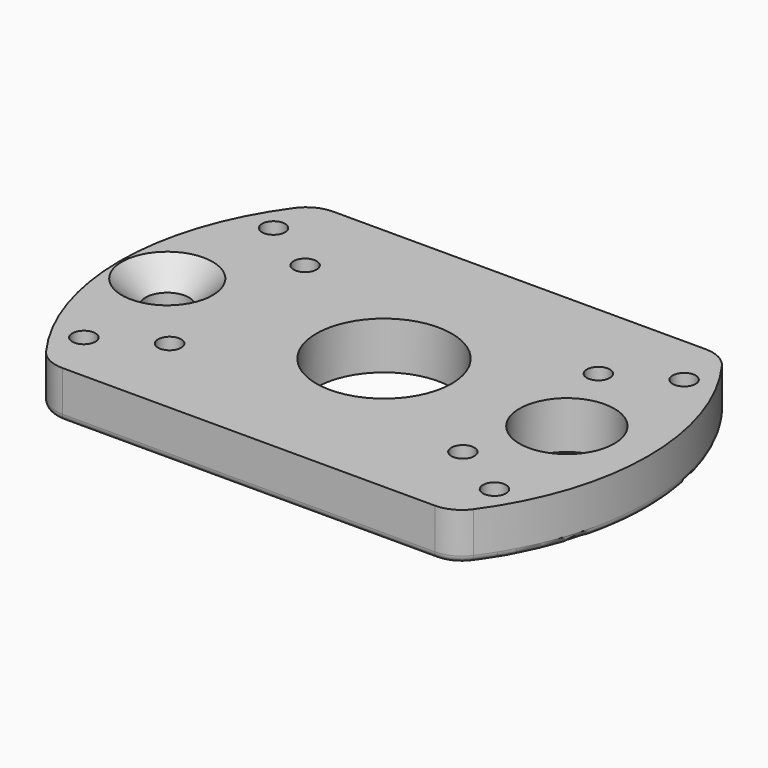
from build123d import *

# Parameters (mm, degrees)
SKETCH020_R     = 10
SKETCH020_R_2   = 3.2
SKETCH020_R_3   = 1.7
SKETCH020_R_4   = 7
PAD_DEPTH       = 7
SKETCH021_R     = 3.5
POCKET_DEPTH    = 1
CHAMFER_SIZE    = 3.5
CHAMFER001_SIZE = 1.5
CHAMFER002_SIZE = 1.5
CHAMFER003_SIZE = 1.5
CHAMFER004_SIZE = 1.5
CHAMFER005_SIZE = 1.5
CHAMFER006_SIZE = 1.5
CHAMFER007_SIZE = 1.5
CHAMFER008_SIZE = 1.5
FILLET_R        = 5
FILLET001_R     = 5
FILLET002_R     = 5
FILLET003_R     = 5
FILLET004_R     = 1


with BuildPart() as part:
    # Sketch020 → Pad (new body)
    with BuildSketch(Plane(origin=(0, 0, 0), x_dir=(1, 0, 0), z_dir=(0, 0, -1))):
        with BuildLine():
            ThreePointArc((-29.933259, 25), (-39, 0), (-29.933259, -25))
            Line((-29.933259, -25), (29.933259, -25))
            ThreePointArc((29.933259, -25), (39, 0), (29.933259, 25))
            Line((-29.933259, 25), (29.933259, 25))
        make_face()
        Circle(SKETCH020_R, mode=Mode.SUBTRACT)
        with Locations((-32, 0)):
            Circle(SKETCH020_R_2, mode=Mode.SUBTRACT)
        with Locations((21.650635, 12.5)):
            Circle(SKETCH020_R_3, mode=Mode.SUBTRACT)
        with Locations((21.650635, -12.5)):
            Circle(SKETCH020_R_3, mode=Mode.SUBTRACT)
        with Locations((-21.650635, 12.5)):
            Circle(SKETCH020_R_3, mode=Mode.SUBTRACT)
        with Locations((-21.650635, -12.5)):
            Circle(SKETCH020_R_3, mode=Mode.SUBTRACT)
        with Locations((-30.310889, 17.5)):
            Circle(SKETCH020_R_3, mode=Mode.SUBTRACT)
        with Locations((-30.310889, -17.5)):
            Circle(SKETCH020_R_3, mode=Mode.SUBTRACT)
        with Locations((30.310889, 17.5)):
            Circle(SKETCH020_R_3, mode=Mode.SUBTRACT)
        with Locations((30.310889, -17.5)):
            Circle(SKETCH020_R_3, mode=Mode.SUBTRACT)
        with Locations((27, 0)):
            Circle(SKETCH020_R_4, mode=Mode.SUBTRACT)
    extrude(amount=PAD_DEPTH)

    # Sketch021 → Pocket (cut)
    with BuildSketch(Plane(origin=(0, 0, -7), x_dir=(1, 0, 0), z_dir=(0, 0, -1))):
        with Locations((21.650635, 12.5)):
            Circle(SKETCH021_R)
        with Locations((21.650635, -12.5)):
            Circle(SKETCH021_R)
        with Locations((-21.650635, 12.5)):
            Circle(SKETCH021_R)
        with Locations((-21.650635, -12.5)):
            Circle(SKETCH021_R)
    extrude(amount=-POCKET_DEPTH, mode=Mode.SUBTRACT)

    # Chamfer
    chamfer_edges = [part.edges().sort_by_distance(p)[0] for p in [
        (-35.2, 0, 0),
    ]]
    chamfer(chamfer_edges, length=CHAMFER_SIZE)

    # Chamfer001
    chamfer001_edges = [part.edges().sort_by_distance(p)[0] for p in [
        (-23.350635, -12.5, -6),
    ]]
    chamfer(chamfer001_edges, length=CHAMFER001_SIZE)

    # Chamfer002
    chamfer002_edges = [part.edges().sort_by_distance(p)[0] for p in [
        (-23.350635, 12.5, -6),
    ]]
    chamfer(chamfer002_edges, length=CHAMFER002_SIZE)

    # Chamfer003
    chamfer003_edges = [part.edges().sort_by_distance(p)[0] for p in [
        (19.950635, -12.5, -6),
    ]]
    chamfer(chamfer003_edges, length=CHAMFER003_SIZE)

    # Chamfer004
    chamfer004_edges = [part.edges().sort_by_distance(p)[0] for p in [
        (19.950635, 12.5, -6),
    ]]
    chamfer(chamfer004_edges, length=CHAMFER004_SIZE)

    # Chamfer005
    chamfer005_edges = [part.edges().sort_by_distance(p)[0] for p in [
        (-32.010889, 17.5, -7),
    ]]
    chamfer(chamfer005_edges, length=CHAMFER005_SIZE)

    # Chamfer006
    chamfer006_edges = [part.edges().sort_by_distance(p)[0] for p in [
        (-32.010889, -17.5, -7),
    ]]
    chamfer(chamfer006_edges, length=CHAMFER006_SIZE)

    # Chamfer007
    chamfer007_edges = [part.edges().sort_by_distance(p)[0] for p in [
        (28.610889, -17.5, -7),
    ]]
    chamfer(chamfer007_edges, length=CHAMFER007_SIZE)

    # Chamfer008
    chamfer008_edges = [part.edges().sort_by_distance(p)[0] for p in [
        (28.610889, 17.5, -7),
    ]]
    chamfer(chamfer008_edges, length=CHAMFER008_SIZE)

    # Fillet
    fillet_edges = [part.edges().sort_by_distance(p)[0] for p in [
        (-29.933259, 25, -3.5),
    ]]
    fillet(fillet_edges, radius=FILLET_R)

    # Fillet001
    fillet001_edges = [part.edges().sort_by_distance(p)[0] for p in [
        (29.933259, 25, -3.5),
    ]]
    fillet(fillet001_edges, radius=FILLET001_R)

    # Fillet002
    fillet002_edges = [part.edges().sort_by_distance(p)[0] for p in [
        (29.933259, -25, -3.5),
    ]]
    fillet(fillet002_edges, radius=FILLET002_R)

    # Fillet003
    fillet003_edges = [part.edges().sort_by_distance(p)[0] for p in [
        (-29.933259, -25, -3.5),
    ]]
    fillet(fillet003_edges, radius=FILLET003_R)

    # Fillet004
    fillet004_edges = [part.edges().sort_by_distance(p)[0] for p in [
        (0, 25, -7),
    ]]
    fillet(fillet004_edges, radius=FILLET004_R)


solid = part.part
